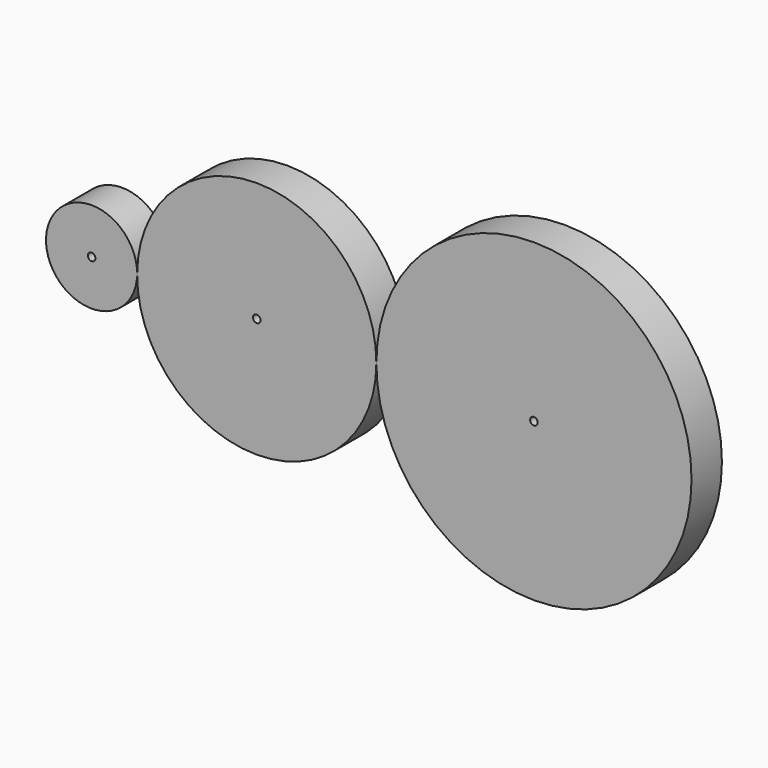
from build123d import *

# Parameters (mm, degrees)
F0_R     = 0.5
F1_DEPTH = 5
F2_DEPTH = 5
F3_DEPTH = 5


with BuildPart() as f1:
    # F0 (on Front) → F1 (new body)
    with BuildSketch(Plane.XZ):
        with BuildLine():
            ThreePointArc((-23.781403, 0.233414), (-23.781343, 0.248895), (-23.781323, 0.264375))
            ThreePointArc((-23.781323, 0.264375), (-35.781303, 0.279856), (-23.781403, 0.233414))
        make_face()
        with Locations((-29.781323, 0.264375)):
            Circle(F0_R, mode=Mode.SUBTRACT)
    extrude(amount=F1_DEPTH)

    # F0 (on Front) → F2 (join)
    with BuildSketch(Plane.XZ):
        with BuildLine():
            ThreePointArc((7.718387, 0.152142), (-7.990976, 15.90209), (-23.781403, 0.233414))
            ThreePointArc((-23.781403, 0.233414), (-8.072249, -15.597805), (7.718387, 0.152142))
        make_face()
        with Locations((-8.031613, 0.152142)):
            Circle(F0_R, mode=Mode.SUBTRACT)
    extrude(amount=F2_DEPTH)

    # F0 (on Front) → F3 (join)
    with BuildSketch(Plane.XZ):
        with BuildLine():
            ThreePointArc((49.218387, 0.152142), (28.468387, 20.902142), (7.718387, 0.152142))
            ThreePointArc((7.718387, 0.152142), (28.468387, -20.597858), (49.218387, 0.152142))
        make_face()
        with Locations((28.468387, 0.152142)):
            Circle(F0_R, mode=Mode.SUBTRACT)
    extrude(amount=F3_DEPTH)


solid = f1.part
